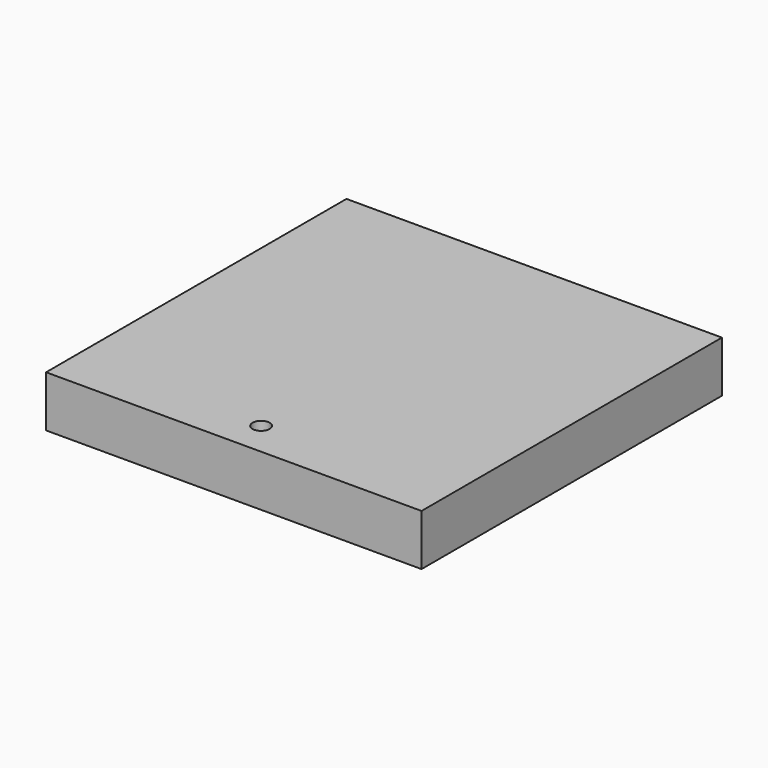
from build123d import *

# Parameters (mm, degrees)
F1_DEPTH = 19.05


with BuildPart() as f1:
    # F0 (on Top) → F1 (new body)
    with BuildSketch(Plane.XY):
        with BuildLine():
            ThreePointArc((3.175, -54.443248), (-2.245064, -52.198184), (0, -57.618248))
            ThreePointArc((0, -57.618248), (2.245064, -56.688312), (3.175, -54.443248))
        make_face()
        Polygon((69.85, 72.556752), (-69.85, 72.556752), (-69.85, -67.143248), (0, -67.143248), (69.85, -67.143248), align=None)
        with BuildLine():
            ThreePointArc((3.175, -54.443248), (2.245064, -56.688312), (0, -57.618248))
            ThreePointArc((0, -57.618248), (-2.245064, -52.198184), (3.175, -54.443248))
        make_face(mode=Mode.SUBTRACT)
    extrude(amount=F1_DEPTH)


solid = f1.part
